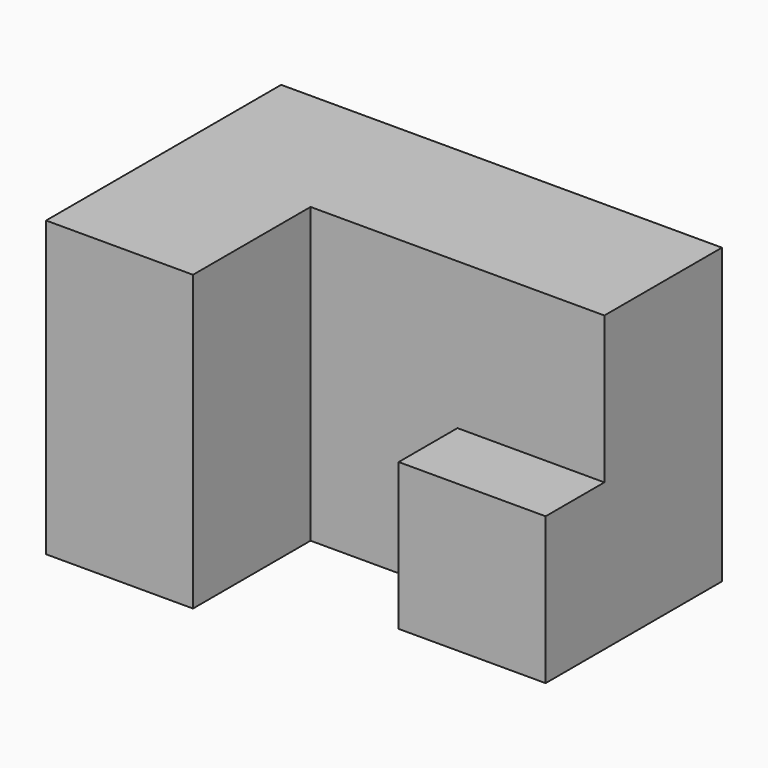
from build123d import *

# Parameters (mm, degrees)
F1_DEPTH = 25.4
F0_W     = 12.7
F0_H     = 6.35
F2_DEPTH = 12.7


with BuildPart() as f1:
    # F0 (on Top) → F1 (new body)
    with BuildSketch(Plane.XY):
        Polygon((0, 25.4), (0, 0), (12.7, 0), (12.7, 12.7), (25.4, 12.7), (38.1, 12.7), (38.1, 25.4), align=None)
    extrude(amount=F1_DEPTH)

    # F0 (on Top) → F2 (join)
    with BuildSketch(Plane.XY):
        with Locations((31.75, 9.525)):
            Rectangle(F0_W, F0_H)
    extrude(amount=F2_DEPTH)


solid = f1.part
